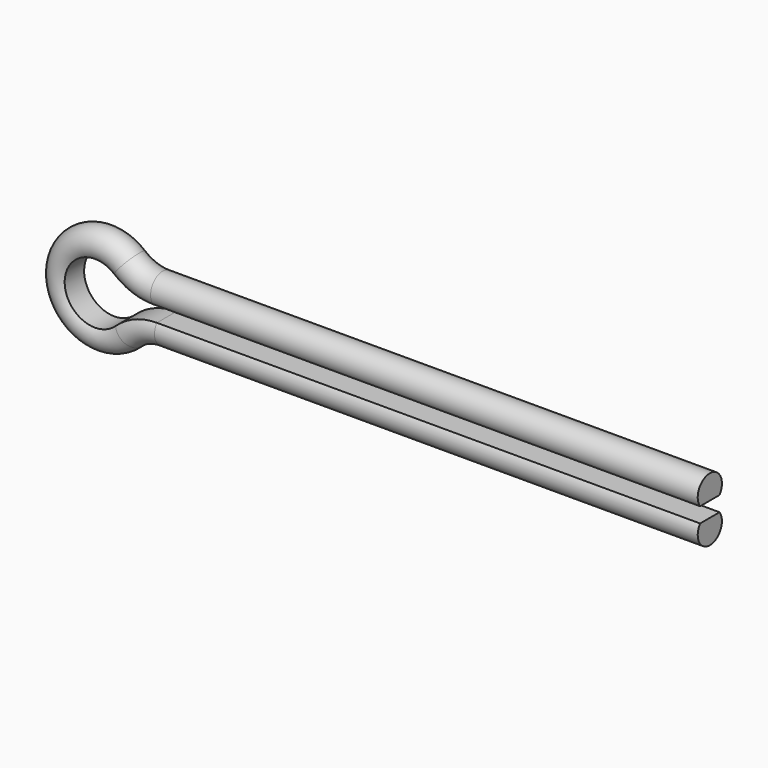
from build123d import *


with BuildPart() as f2:
    # F2: sweep along a path in F0
    with BuildLine(Plane.XZ) as f2_path:
        Line((0, 0), (-89.7624007647, 0))
        ThreePointArc((-89.7624007647, 0), (-93.4306468362, -0.6970987988), (-96.5874669216, -2.6912058481))
        ThreePointArc((-96.5874669216, -2.6912058481), (-104.9979081868, 0.8185753347), (-96.8044815522, 4.8087941519))
        ThreePointArc((-96.8044815522, 4.8087941519), (-93.8110865975, 3.0948934487), (-90.4134446565, 2.5))
        Line((-90.4134446565, 2.5), (0, 2.5))
    # F1 (on Right) → F2 (sweep)
    with BuildSketch(Plane.YZ):
        with BuildLine():
            ThreePointArc((-2.0097258966, 0), (0, -3.9869437852), (2.0097258966, 0))
            Line((2.0097258966, 0), (-2.0097258966, 0))
        make_face()
    sweep(path=f2_path.line)


solid = f2.part
